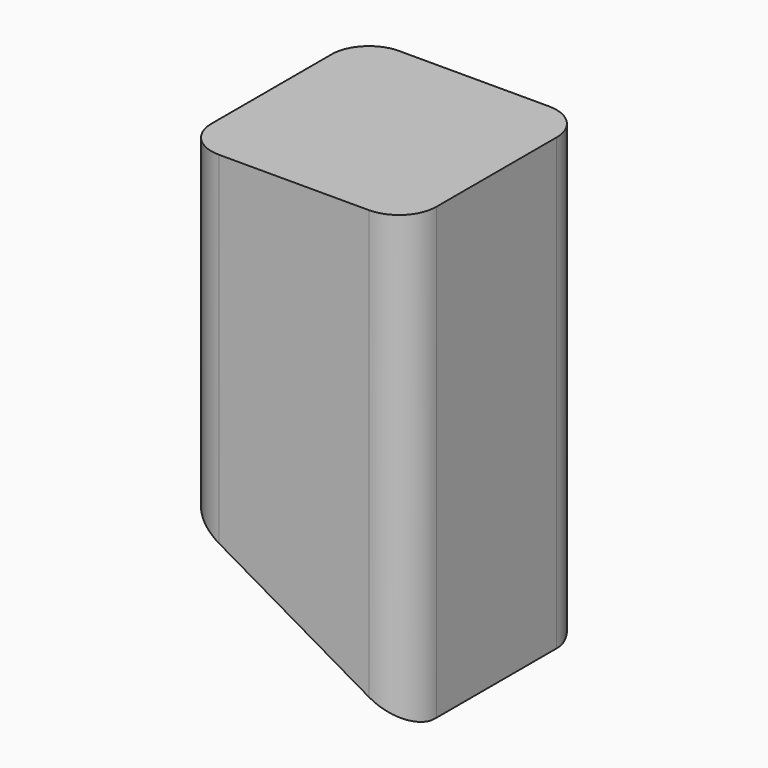
from build123d import *

# Parameters (mm, degrees)
F1_DEPTH = 76.2
F3_DEPTH = 19.05


with BuildPart() as f1:
    # F0 (on Top) → F1 (new body)
    with BuildSketch(Plane.XY):
        with BuildLine():
            ThreePointArc((19.05, 12.7), (17.190128, 17.190128), (12.7, 19.05))
            Line((12.7, 19.05), (-12.7, 19.05))
            ThreePointArc((-12.7, 19.05), (-17.190128, 17.190128), (-19.05, 12.7))
            Line((-19.05, 12.7), (-19.05, -12.7))
            ThreePointArc((-19.05, -12.7), (-17.190128, -17.190128), (-12.7, -19.05))
            Line((-12.7, -19.05), (12.7, -19.05))
            ThreePointArc((12.7, -19.05), (17.190128, -17.190128), (19.05, -12.7))
            Line((19.05, -12.7), (19.05, 12.7))
        make_face()
    extrude(amount=F1_DEPTH)

    # F2 (on Front) → F3 (cut, symmetric)
    with BuildSketch(Plane.XZ):
        Polygon((18.924247, 0), (-19.05, 21.924442), (-19.05, 0), align=None)
    extrude(amount=F3_DEPTH, both=True, mode=Mode.SUBTRACT)


solid = f1.part
